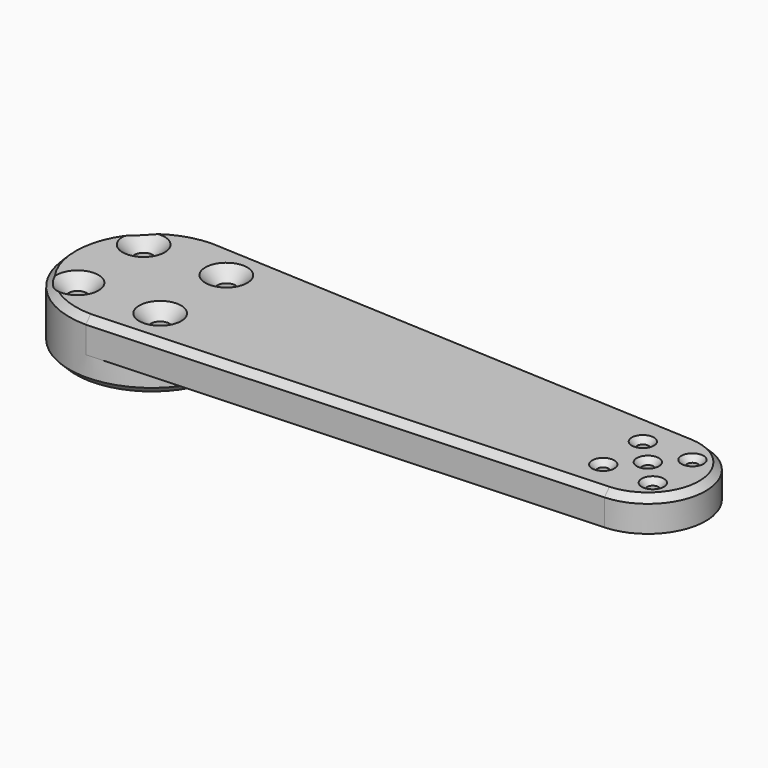
from build123d import *

# Parameters (mm, degrees)
SKETCH_R            = 25
PAD_DEPTH           = 8
PAD001_DEPTH        = 10
CHAMFER_SIZE        = 2
HOLE_D              = 5.5
HOLE_DEPTH          = 25
HOLE_CSINK_D        = 12.7
HOLE_CSINK_ANGLE    = 90
HOLE001_D           = 3.4
HOLE001_DEPTH       = 25
HOLE001_CSINK_D     = 6.7
HOLE001_CSINK_ANGLE = 90
CHAMFER001_SIZE     = 2


with BuildPart() as part:
    # Sketch → Pad (new body)
    with BuildSketch(Plane.XY):
        Circle(SKETCH_R)
    extrude(amount=PAD_DEPTH)

    # Sketch001 (on Face3 of Pad) → Pad001 (join)
    with BuildSketch(Plane.XY.offset(8)):
        with BuildLine():
            ThreePointArc((0, 25), (-25, 0), (0, -25))
            Line((150.871382, -17.478292), (0, -25))
            ThreePointArc((150.871382, -17.478292), (167.5, 0), (150.871382, 17.478292))
            Line((0, 25), (150.871382, 17.478292))
        make_face()
    extrude(amount=PAD001_DEPTH)

    # Chamfer
    chamfer_edges = [part.edges().sort_by_distance(p)[0] for p in [
        (75.435691, -21.239146, 18),
    ]]
    chamfer(chamfer_edges, length=CHAMFER_SIZE)

    # Hole
    with Locations(Plane.XY.offset(18)):
        with Locations((-12.5, 12.5), (12.5, 12.5), (12.5, -12.5), (-12.5, -12.5)):
            CounterSinkHole(HOLE_D / 2, HOLE_CSINK_D / 2, depth=HOLE_DEPTH, counter_sink_angle=HOLE_CSINK_ANGLE)

    # Hole001
    with Locations(Plane.XY.offset(18)):
        with Locations((142.5, 7.5), (157.5, 7.5), (157.5, -7.5), (142.5, -7.5), (150, 0)):
            CounterSinkHole(HOLE001_D / 2, HOLE001_CSINK_D / 2, depth=HOLE001_DEPTH, counter_sink_angle=HOLE001_CSINK_ANGLE)

    # Chamfer001
    chamfer001_edges = [part.edges().sort_by_distance(p)[0] for p in [
        (-25, 0, 0),
    ]]
    chamfer(chamfer001_edges, length=CHAMFER001_SIZE)


solid = part.part
